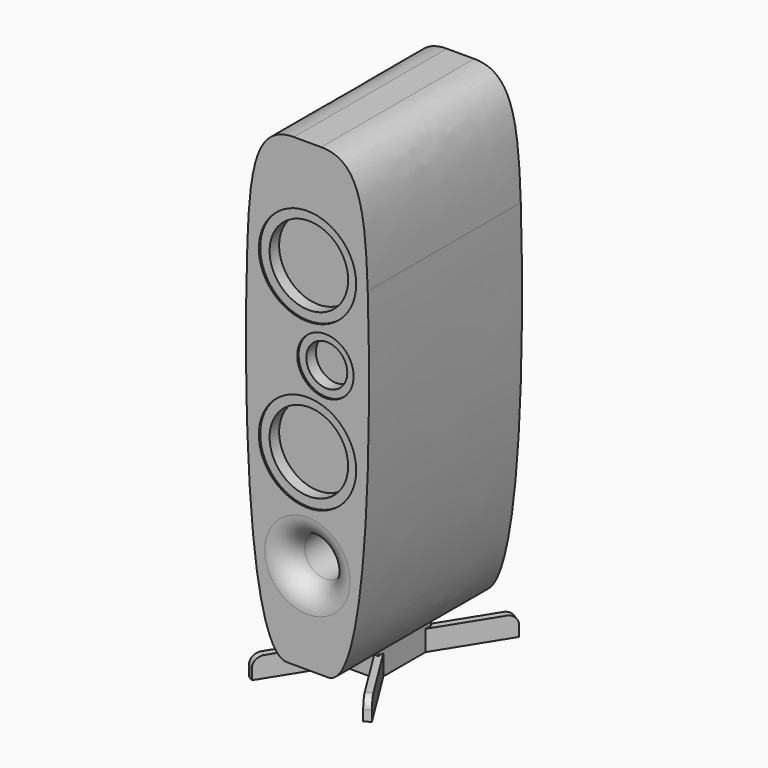
from build123d import *

# Parameters (mm, degrees)
F3_DEPTH  = 355.6
F0_R      = 90.4875
F0_R_2    = 73.025
F0_R_3    = 52.3875
F0_R_4    = 38.1
F4_DEPTH  = 3.175
F5_DEPTH  = 25.4
F10_DEPTH = 50.8
F11_START = -12.7
F11_DEPTH = 38.1
F12_R     = 19.05


with BuildPart() as f3:
    # F1 (on Front) → F3 (new body)
    with BuildSketch(Plane.XZ):
        with BuildLine():
            Line((0, 152.4), (-92.7112461504, 155.7176713219))
            add(Edge.make_bspline(
                [(-92.7112461504, 155.7176713219), (-92.8641930012, 151.1403403727), (-93.2474927467, 138.6395169996), (-93.8012474587, 117.9466457714), (-94.4256588371, 91.1332731282), (-94.9788011318, 58.819823924), (-95.3345037417, 16.2155518247), (-95.3864781132, -39.516960352), (-94.7473890545, -98.5249010914), (-93.5421839375, -139.0363418002), (-92.9135963851, -155.7249124236)],
                knots=[211.8234561932, 211.8234561932, 211.8234561932, 211.8234561932, 225.5630364262, 249.3430528874, 273.9243767972, 306.0246752951, 346.2965974624, 401.740167389, 473.2209938824, 523.3210720186, 523.3210720186, 523.3210720186, 523.3210720186], degree=3))
            Line((-92.9135963851, -155.7249124236), (0, -152.4))
            Line((0, -152.4), (93.1573884981, -149.0663634772))
            add(Edge.make_bspline(
                [(92.9250566069, 149.0746774724), (92.9984624543, 146.7113998006), (93.3067586698, 136.4248503112), (93.8012474587, 117.9466457714), (94.4256588371, 91.1332731282), (94.9788011318, 58.819823924), (95.3345037417, 16.2155518247), (95.3864781132, -39.516960352), (94.7714431232, -96.3039570159), (93.6719775289, -134.5960929674), (93.1573884981, -149.0663634772)],
                knots=[218.4698436697, 218.4698436697, 218.4698436697, 218.4698436697, 225.5630364262, 249.3430528874, 273.9243767972, 306.0246752951, 346.2965974624, 401.740167389, 473.2209938824, 516.6582152392, 516.6582152392, 516.6582152392, 516.6582152392], degree=3))
            Line((92.9250566069, 149.0746774724), (0, 152.4))
        make_face()
        with BuildLine():
            Line((0, 152.4), (-92.7112461504, 155.7176713219))
            add(Edge.make_bspline(
                [(-92.7112461504, 155.7176713219), (-92.8641930012, 151.1403403727), (-93.2474927467, 138.6395169996), (-93.8012474587, 117.9466457714), (-94.4256588371, 91.1332731282), (-94.9788011318, 58.819823924), (-95.3345037417, 16.2155518247), (-95.3864781132, -39.516960352), (-94.7473890545, -98.5249010914), (-93.5421839375, -139.0363418002), (-92.9135963851, -155.7249124236)],
                knots=[211.8234561932, 211.8234561932, 211.8234561932, 211.8234561932, 225.5630364262, 249.3430528874, 273.9243767972, 306.0246752951, 346.2965974624, 401.740167389, 473.2209938824, 523.3210720186, 523.3210720186, 523.3210720186, 523.3210720186], degree=3))
            Line((-92.9135963851, -155.7249124236), (0, -152.4))
            Line((0, -152.4), (93.1573884981, -149.0663634772))
            add(Edge.make_bspline(
                [(92.9250566069, 149.0746774724), (92.9984624543, 146.7113998006), (93.3067586698, 136.4248503112), (93.8012474587, 117.9466457714), (94.4256588371, 91.1332731282), (94.9788011318, 58.819823924), (95.3345037417, 16.2155518247), (95.3864781132, -39.516960352), (94.7714431232, -96.3039570159), (93.6719775289, -134.5960929674), (93.1573884981, -149.0663634772)],
                knots=[218.4698436697, 218.4698436697, 218.4698436697, 218.4698436697, 225.5630364262, 249.3430528874, 273.9243767972, 306.0246752951, 346.2965974624, 401.740167389, 473.2209938824, 516.6582152392, 516.6582152392, 516.6582152392, 516.6582152392], degree=3))
            Line((92.9250566069, 149.0746774724), (0, 152.4))
        make_face()
        with BuildLine():
            Line((0, 152.4), (-92.7112461504, 155.7176713219))
            add(Edge.make_bspline(
                [(-92.7112461504, 155.7176713219), (-92.8641930012, 151.1403403727), (-93.2474927467, 138.6395169996), (-93.8012474587, 117.9466457714), (-94.4256588371, 91.1332731282), (-94.9788011318, 58.819823924), (-95.3345037417, 16.2155518247), (-95.3864781132, -39.516960352), (-94.7473890545, -98.5249010914), (-93.5421839375, -139.0363418002), (-92.9135963851, -155.7249124236)],
                knots=[211.8234561932, 211.8234561932, 211.8234561932, 211.8234561932, 225.5630364262, 249.3430528874, 273.9243767972, 306.0246752951, 346.2965974624, 401.740167389, 473.2209938824, 523.3210720186, 523.3210720186, 523.3210720186, 523.3210720186], degree=3))
            Line((-92.9135963851, -155.7249124236), (0, -152.4))
            Line((0, -152.4), (93.1573884981, -149.0663634772))
            add(Edge.make_bspline(
                [(92.9250566069, 149.0746774724), (92.9984624543, 146.7113998006), (93.3067586698, 136.4248503112), (93.8012474587, 117.9466457714), (94.4256588371, 91.1332731282), (94.9788011318, 58.819823924), (95.3345037417, 16.2155518247), (95.3864781132, -39.516960352), (94.7714431232, -96.3039570159), (93.6719775289, -134.5960929674), (93.1573884981, -149.0663634772)],
                knots=[218.4698436697, 218.4698436697, 218.4698436697, 218.4698436697, 225.5630364262, 249.3430528874, 273.9243767972, 306.0246752951, 346.2965974624, 401.740167389, 473.2209938824, 516.6582152392, 516.6582152392, 516.6582152392, 516.6582152392], degree=3))
            Line((92.9250566069, 149.0746774724), (0, 152.4))
        make_face()
        with BuildLine():
            Line((0, 152.4), (-92.7112461504, 155.7176713219))
            add(Edge.make_bspline(
                [(-92.7112461504, 155.7176713219), (-92.8641930012, 151.1403403727), (-93.2474927467, 138.6395169996), (-93.8012474587, 117.9466457714), (-94.4256588371, 91.1332731282), (-94.9788011318, 58.819823924), (-95.3345037417, 16.2155518247), (-95.3864781132, -39.516960352), (-94.7473890545, -98.5249010914), (-93.5421839375, -139.0363418002), (-92.9135963851, -155.7249124236)],
                knots=[211.8234561932, 211.8234561932, 211.8234561932, 211.8234561932, 225.5630364262, 249.3430528874, 273.9243767972, 306.0246752951, 346.2965974624, 401.740167389, 473.2209938824, 523.3210720186, 523.3210720186, 523.3210720186, 523.3210720186], degree=3))
            Line((-92.9135963851, -155.7249124236), (0, -152.4))
            Line((0, -152.4), (93.1573884981, -149.0663634772))
            add(Edge.make_bspline(
                [(92.9250566069, 149.0746774724), (92.9984624543, 146.7113998006), (93.3067586698, 136.4248503112), (93.8012474587, 117.9466457714), (94.4256588371, 91.1332731282), (94.9788011318, 58.819823924), (95.3345037417, 16.2155518247), (95.3864781132, -39.516960352), (94.7714431232, -96.3039570159), (93.6719775289, -134.5960929674), (93.1573884981, -149.0663634772)],
                knots=[218.4698436697, 218.4698436697, 218.4698436697, 218.4698436697, 225.5630364262, 249.3430528874, 273.9243767972, 306.0246752951, 346.2965974624, 401.740167389, 473.2209938824, 516.6582152392, 516.6582152392, 516.6582152392, 516.6582152392], degree=3))
            Line((92.9250566069, 149.0746774724), (0, 152.4))
        make_face()
        with BuildLine():
            Line((0, 152.4), (-92.7112461504, 155.7176713219))
            add(Edge.make_bspline(
                [(-92.7112461504, 155.7176713219), (-92.8641930012, 151.1403403727), (-93.2474927467, 138.6395169996), (-93.8012474587, 117.9466457714), (-94.4256588371, 91.1332731282), (-94.9788011318, 58.819823924), (-95.3345037417, 16.2155518247), (-95.3864781132, -39.516960352), (-94.7473890545, -98.5249010914), (-93.5421839375, -139.0363418002), (-92.9135963851, -155.7249124236)],
                knots=[211.8234561932, 211.8234561932, 211.8234561932, 211.8234561932, 225.5630364262, 249.3430528874, 273.9243767972, 306.0246752951, 346.2965974624, 401.740167389, 473.2209938824, 523.3210720186, 523.3210720186, 523.3210720186, 523.3210720186], degree=3))
            Line((-92.9135963851, -155.7249124236), (0, -152.4))
            Line((0, -152.4), (93.1573884981, -149.0663634772))
            add(Edge.make_bspline(
                [(92.9250566069, 149.0746774724), (92.9984624543, 146.7113998006), (93.3067586698, 136.4248503112), (93.8012474587, 117.9466457714), (94.4256588371, 91.1332731282), (94.9788011318, 58.819823924), (95.3345037417, 16.2155518247), (95.3864781132, -39.516960352), (94.7714431232, -96.3039570159), (93.6719775289, -134.5960929674), (93.1573884981, -149.0663634772)],
                knots=[218.4698436697, 218.4698436697, 218.4698436697, 218.4698436697, 225.5630364262, 249.3430528874, 273.9243767972, 306.0246752951, 346.2965974624, 401.740167389, 473.2209938824, 516.6582152392, 516.6582152392, 516.6582152392, 516.6582152392], degree=3))
            Line((92.9250566069, 149.0746774724), (0, 152.4))
        make_face()
        with BuildLine():
            Line((0, -152.4), (-92.9135963851, -155.7249124236))
            add(Edge.make_bspline(
                [(-92.9135963851, -155.7249124236), (-92.6457618459, -162.8357366905), (-91.5970507574, -188.3890415824), (-89.524414618, -227.3102564369), (-86.5218341455, -271.880730271), (-83.2137087422, -310.024823985), (-80.488934966, -335.0813875099), (-78.9641849848, -347.3783643793), (-78.9249909244, -347.6934582376)],
                knots=[523.3210720186, 523.3210720186, 523.3210720186, 523.3210720186, 544.6681879231, 600.0435137581, 640.2454008653, 678.6773968855, 714.8974608449, 715.850005653, 715.850005653, 715.850005653, 715.850005653], degree=3))
            add(Edge.make_bspline(
                [(-78.9249909244, -347.6934582376), (-77.5831845965, -358.4806777498), (-74.7107514939, -379.3072248059), (-69.8950855973, -407.3927944405), (-64.9032216385, -429.7597325486), (-60.5188994425, -445.524215911), (-56.8451495548, -457.0610481976), (-53.4639820209, -466.060865611), (-50.0440760364, -473.6760671605), (-46.873902659, -479.550776071), (-44.1134915447, -483.5226775554), (-42.1180910537, -485.8526857591), (-40.7318678473, -487.2514205327), (-39.7232262434, -488.0869747738), (-38.9700526123, -488.6012626433), (-38.4815276269, -488.8360087805), (-38.2369620823, -488.9407472262), (-38.1459564907, -488.9455887833), (-38.1209317734, -488.9514924372), (-38.1091410957, -488.9521926248), (-38.1, -488.95)],
                knots=[715.850005653, 715.850005653, 715.850005653, 715.850005653, 748.4603205436, 778.9130798013, 801.3098883276, 817.178118273, 827.9862957219, 837.6241678442, 846.0022857075, 853.0155586135, 857.6172797047, 860.4811828503, 862.2102912432, 863.5160358364, 864.409845483, 864.9297764833, 865.1514209109, 865.1927661077, 865.201673997, 865.2283800272, 865.2283800272, 865.2283800272, 865.2283800272], degree=3))
            Line((-38.1, -488.95), (38.1, -488.95))
            add(Edge.make_bspline(
                [(93.1573884981, -149.0663634772), (92.8255619161, -158.3973443515), (91.7151585788, -186.1711414857), (89.524414618, -227.3102564369), (86.5218341455, -271.880730271), (83.2137087422, -310.024823985), (79.3136661964, -345.8889623781), (74.7644274107, -378.9941801034), (69.8950855973, -407.3927944405), (64.9032216385, -429.7597325486), (60.5188994425, -445.524215911), (56.8451495548, -457.0610481976), (53.4639820209, -466.060865611), (50.0440760364, -473.6760671605), (46.873902659, -479.550776071), (44.1134915447, -483.5226775554), (42.1180910537, -485.8526857591), (40.7318678473, -487.2514205327), (39.7232262434, -488.0869747738), (38.9700526123, -488.6012626433), (38.4815276269, -488.8360087805), (38.2369620823, -488.9407472262), (38.1459564907, -488.9455887833), (38.1209317734, -488.9514924372), (38.1091410957, -488.9521926248), (38.1, -488.95)],
                knots=[516.6582152392, 516.6582152392, 516.6582152392, 516.6582152392, 544.6681879231, 600.0435137581, 640.2454008653, 678.6773968855, 714.8974608449, 748.4603205436, 778.9130798013, 801.3098883276, 817.178118273, 827.9862957219, 837.6241678442, 846.0022857075, 853.0155586135, 857.6172797047, 860.4811828503, 862.2102912432, 863.5160358364, 864.409845483, 864.9297764833, 865.1514209109, 865.1927661077, 865.201673997, 865.2283800272, 865.2283800272, 865.2283800272, 865.2283800272], degree=3))
            Line((93.1573884981, -149.0663634772), (0, -152.4))
        make_face()
        with BuildLine():
            ThreePointArc((-67.7994469004, -379.1027642179), (-74.946808056, -363.9690455029), (-78.7620478476, -347.6730902082))
            ThreePointArc((-78.7620478476, -347.6730902082), (-4.9321940908, -258.6061504597), (79.375, -337.8277642179))
            ThreePointArc((79.375, -337.8277642179), (76.4263427187, -359.2614937963), (67.7994469004, -379.1027642179))
            ThreePointArc((67.7994469004, -379.1027642179), (60.4486971375, -389.2704083896), (51.5876438694, -398.1527642179))
            ThreePointArc((51.5876438694, -398.1527642179), (0, -417.2027642179), (-51.5876438694, -398.1527642179))
            ThreePointArc((-51.5876438694, -398.1527642179), (-60.4486971375, -389.2704083896), (-67.7994469004, -379.1027642179))
        make_face(mode=Mode.SUBTRACT)
        with BuildLine():
            Line((0, -152.4), (-92.9135963851, -155.7249124236))
            add(Edge.make_bspline(
                [(-92.9135963851, -155.7249124236), (-92.6457618459, -162.8357366905), (-91.5970507574, -188.3890415824), (-89.524414618, -227.3102564369), (-86.5218341455, -271.880730271), (-83.2137087422, -310.024823985), (-80.488934966, -335.0813875099), (-78.9641849848, -347.3783643793), (-78.9249909244, -347.6934582376)],
                knots=[523.3210720186, 523.3210720186, 523.3210720186, 523.3210720186, 544.6681879231, 600.0435137581, 640.2454008653, 678.6773968855, 714.8974608449, 715.850005653, 715.850005653, 715.850005653, 715.850005653], degree=3))
            add(Edge.make_bspline(
                [(-78.9249909244, -347.6934582376), (-77.5831845965, -358.4806777498), (-74.7107514939, -379.3072248059), (-69.8950855973, -407.3927944405), (-64.9032216385, -429.7597325486), (-60.5188994425, -445.524215911), (-56.8451495548, -457.0610481976), (-53.4639820209, -466.060865611), (-50.0440760364, -473.6760671605), (-46.873902659, -479.550776071), (-44.1134915447, -483.5226775554), (-42.1180910537, -485.8526857591), (-40.7318678473, -487.2514205327), (-39.7232262434, -488.0869747738), (-38.9700526123, -488.6012626433), (-38.4815276269, -488.8360087805), (-38.2369620823, -488.9407472262), (-38.1459564907, -488.9455887833), (-38.1209317734, -488.9514924372), (-38.1091410957, -488.9521926248), (-38.1, -488.95)],
                knots=[715.850005653, 715.850005653, 715.850005653, 715.850005653, 748.4603205436, 778.9130798013, 801.3098883276, 817.178118273, 827.9862957219, 837.6241678442, 846.0022857075, 853.0155586135, 857.6172797047, 860.4811828503, 862.2102912432, 863.5160358364, 864.409845483, 864.9297764833, 865.1514209109, 865.1927661077, 865.201673997, 865.2283800272, 865.2283800272, 865.2283800272, 865.2283800272], degree=3))
            Line((-38.1, -488.95), (38.1, -488.95))
            add(Edge.make_bspline(
                [(93.1573884981, -149.0663634772), (92.8255619161, -158.3973443515), (91.7151585788, -186.1711414857), (89.524414618, -227.3102564369), (86.5218341455, -271.880730271), (83.2137087422, -310.024823985), (79.3136661964, -345.8889623781), (74.7644274107, -378.9941801034), (69.8950855973, -407.3927944405), (64.9032216385, -429.7597325486), (60.5188994425, -445.524215911), (56.8451495548, -457.0610481976), (53.4639820209, -466.060865611), (50.0440760364, -473.6760671605), (46.873902659, -479.550776071), (44.1134915447, -483.5226775554), (42.1180910537, -485.8526857591), (40.7318678473, -487.2514205327), (39.7232262434, -488.0869747738), (38.9700526123, -488.6012626433), (38.4815276269, -488.8360087805), (38.2369620823, -488.9407472262), (38.1459564907, -488.9455887833), (38.1209317734, -488.9514924372), (38.1091410957, -488.9521926248), (38.1, -488.95)],
                knots=[516.6582152392, 516.6582152392, 516.6582152392, 516.6582152392, 544.6681879231, 600.0435137581, 640.2454008653, 678.6773968855, 714.8974608449, 748.4603205436, 778.9130798013, 801.3098883276, 817.178118273, 827.9862957219, 837.6241678442, 846.0022857075, 853.0155586135, 857.6172797047, 860.4811828503, 862.2102912432, 863.5160358364, 864.409845483, 864.9297764833, 865.1514209109, 865.1927661077, 865.201673997, 865.2283800272, 865.2283800272, 865.2283800272, 865.2283800272], degree=3))
            Line((93.1573884981, -149.0663634772), (0, -152.4))
        make_face()
        with BuildLine():
            ThreePointArc((-67.7994469004, -379.1027642179), (-74.946808056, -363.9690455029), (-78.7620478476, -347.6730902082))
            ThreePointArc((-78.7620478476, -347.6730902082), (-4.9321940908, -258.6061504597), (79.375, -337.8277642179))
            ThreePointArc((79.375, -337.8277642179), (76.4263427187, -359.2614937963), (67.7994469004, -379.1027642179))
            ThreePointArc((67.7994469004, -379.1027642179), (60.4486971375, -389.2704083896), (51.5876438694, -398.1527642179))
            ThreePointArc((51.5876438694, -398.1527642179), (0, -417.2027642179), (-51.5876438694, -398.1527642179))
            ThreePointArc((-51.5876438694, -398.1527642179), (-60.4486971375, -389.2704083896), (-67.7994469004, -379.1027642179))
        make_face(mode=Mode.SUBTRACT)
        with BuildLine():
            Line((0, -152.4), (-92.9135963851, -155.7249124236))
            add(Edge.make_bspline(
                [(-92.9135963851, -155.7249124236), (-92.6457618459, -162.8357366905), (-91.5970507574, -188.3890415824), (-89.524414618, -227.3102564369), (-86.5218341455, -271.880730271), (-83.2137087422, -310.024823985), (-80.488934966, -335.0813875099), (-78.9641849848, -347.3783643793), (-78.9249909244, -347.6934582376)],
                knots=[523.3210720186, 523.3210720186, 523.3210720186, 523.3210720186, 544.6681879231, 600.0435137581, 640.2454008653, 678.6773968855, 714.8974608449, 715.850005653, 715.850005653, 715.850005653, 715.850005653], degree=3))
            add(Edge.make_bspline(
                [(-78.9249909244, -347.6934582376), (-77.5831845965, -358.4806777498), (-74.7107514939, -379.3072248059), (-69.8950855973, -407.3927944405), (-64.9032216385, -429.7597325486), (-60.5188994425, -445.524215911), (-56.8451495548, -457.0610481976), (-53.4639820209, -466.060865611), (-50.0440760364, -473.6760671605), (-46.873902659, -479.550776071), (-44.1134915447, -483.5226775554), (-42.1180910537, -485.8526857591), (-40.7318678473, -487.2514205327), (-39.7232262434, -488.0869747738), (-38.9700526123, -488.6012626433), (-38.4815276269, -488.8360087805), (-38.2369620823, -488.9407472262), (-38.1459564907, -488.9455887833), (-38.1209317734, -488.9514924372), (-38.1091410957, -488.9521926248), (-38.1, -488.95)],
                knots=[715.850005653, 715.850005653, 715.850005653, 715.850005653, 748.4603205436, 778.9130798013, 801.3098883276, 817.178118273, 827.9862957219, 837.6241678442, 846.0022857075, 853.0155586135, 857.6172797047, 860.4811828503, 862.2102912432, 863.5160358364, 864.409845483, 864.9297764833, 865.1514209109, 865.1927661077, 865.201673997, 865.2283800272, 865.2283800272, 865.2283800272, 865.2283800272], degree=3))
            Line((-38.1, -488.95), (38.1, -488.95))
            add(Edge.make_bspline(
                [(93.1573884981, -149.0663634772), (92.8255619161, -158.3973443515), (91.7151585788, -186.1711414857), (89.524414618, -227.3102564369), (86.5218341455, -271.880730271), (83.2137087422, -310.024823985), (79.3136661964, -345.8889623781), (74.7644274107, -378.9941801034), (69.8950855973, -407.3927944405), (64.9032216385, -429.7597325486), (60.5188994425, -445.524215911), (56.8451495548, -457.0610481976), (53.4639820209, -466.060865611), (50.0440760364, -473.6760671605), (46.873902659, -479.550776071), (44.1134915447, -483.5226775554), (42.1180910537, -485.8526857591), (40.7318678473, -487.2514205327), (39.7232262434, -488.0869747738), (38.9700526123, -488.6012626433), (38.4815276269, -488.8360087805), (38.2369620823, -488.9407472262), (38.1459564907, -488.9455887833), (38.1209317734, -488.9514924372), (38.1091410957, -488.9521926248), (38.1, -488.95)],
                knots=[516.6582152392, 516.6582152392, 516.6582152392, 516.6582152392, 544.6681879231, 600.0435137581, 640.2454008653, 678.6773968855, 714.8974608449, 748.4603205436, 778.9130798013, 801.3098883276, 817.178118273, 827.9862957219, 837.6241678442, 846.0022857075, 853.0155586135, 857.6172797047, 860.4811828503, 862.2102912432, 863.5160358364, 864.409845483, 864.9297764833, 865.1514209109, 865.1927661077, 865.201673997, 865.2283800272, 865.2283800272, 865.2283800272, 865.2283800272], degree=3))
            Line((93.1573884981, -149.0663634772), (0, -152.4))
        make_face()
        with BuildLine():
            ThreePointArc((-67.7994469004, -379.1027642179), (-74.946808056, -363.9690455029), (-78.7620478476, -347.6730902082))
            ThreePointArc((-78.7620478476, -347.6730902082), (-4.9321940908, -258.6061504597), (79.375, -337.8277642179))
            ThreePointArc((79.375, -337.8277642179), (76.4263427187, -359.2614937963), (67.7994469004, -379.1027642179))
            ThreePointArc((67.7994469004, -379.1027642179), (60.4486971375, -389.2704083896), (51.5876438694, -398.1527642179))
            ThreePointArc((51.5876438694, -398.1527642179), (0, -417.2027642179), (-51.5876438694, -398.1527642179))
            ThreePointArc((-51.5876438694, -398.1527642179), (-60.4486971375, -389.2704083896), (-67.7994469004, -379.1027642179))
        make_face(mode=Mode.SUBTRACT)
        with BuildLine():
            Line((0, -152.4), (-92.9135963851, -155.7249124236))
            add(Edge.make_bspline(
                [(-92.9135963851, -155.7249124236), (-92.6457618459, -162.8357366905), (-91.5970507574, -188.3890415824), (-89.524414618, -227.3102564369), (-86.5218341455, -271.880730271), (-83.2137087422, -310.024823985), (-80.488934966, -335.0813875099), (-78.9641849848, -347.3783643793), (-78.9249909244, -347.6934582376)],
                knots=[523.3210720186, 523.3210720186, 523.3210720186, 523.3210720186, 544.6681879231, 600.0435137581, 640.2454008653, 678.6773968855, 714.8974608449, 715.850005653, 715.850005653, 715.850005653, 715.850005653], degree=3))
            add(Edge.make_bspline(
                [(-78.9249909244, -347.6934582376), (-77.5831845965, -358.4806777498), (-74.7107514939, -379.3072248059), (-69.8950855973, -407.3927944405), (-64.9032216385, -429.7597325486), (-60.5188994425, -445.524215911), (-56.8451495548, -457.0610481976), (-53.4639820209, -466.060865611), (-50.0440760364, -473.6760671605), (-46.873902659, -479.550776071), (-44.1134915447, -483.5226775554), (-42.1180910537, -485.8526857591), (-40.7318678473, -487.2514205327), (-39.7232262434, -488.0869747738), (-38.9700526123, -488.6012626433), (-38.4815276269, -488.8360087805), (-38.2369620823, -488.9407472262), (-38.1459564907, -488.9455887833), (-38.1209317734, -488.9514924372), (-38.1091410957, -488.9521926248), (-38.1, -488.95)],
                knots=[715.850005653, 715.850005653, 715.850005653, 715.850005653, 748.4603205436, 778.9130798013, 801.3098883276, 817.178118273, 827.9862957219, 837.6241678442, 846.0022857075, 853.0155586135, 857.6172797047, 860.4811828503, 862.2102912432, 863.5160358364, 864.409845483, 864.9297764833, 865.1514209109, 865.1927661077, 865.201673997, 865.2283800272, 865.2283800272, 865.2283800272, 865.2283800272], degree=3))
            Line((-38.1, -488.95), (38.1, -488.95))
            add(Edge.make_bspline(
                [(93.1573884981, -149.0663634772), (92.8255619161, -158.3973443515), (91.7151585788, -186.1711414857), (89.524414618, -227.3102564369), (86.5218341455, -271.880730271), (83.2137087422, -310.024823985), (79.3136661964, -345.8889623781), (74.7644274107, -378.9941801034), (69.8950855973, -407.3927944405), (64.9032216385, -429.7597325486), (60.5188994425, -445.524215911), (56.8451495548, -457.0610481976), (53.4639820209, -466.060865611), (50.0440760364, -473.6760671605), (46.873902659, -479.550776071), (44.1134915447, -483.5226775554), (42.1180910537, -485.8526857591), (40.7318678473, -487.2514205327), (39.7232262434, -488.0869747738), (38.9700526123, -488.6012626433), (38.4815276269, -488.8360087805), (38.2369620823, -488.9407472262), (38.1459564907, -488.9455887833), (38.1209317734, -488.9514924372), (38.1091410957, -488.9521926248), (38.1, -488.95)],
                knots=[516.6582152392, 516.6582152392, 516.6582152392, 516.6582152392, 544.6681879231, 600.0435137581, 640.2454008653, 678.6773968855, 714.8974608449, 748.4603205436, 778.9130798013, 801.3098883276, 817.178118273, 827.9862957219, 837.6241678442, 846.0022857075, 853.0155586135, 857.6172797047, 860.4811828503, 862.2102912432, 863.5160358364, 864.409845483, 864.9297764833, 865.1514209109, 865.1927661077, 865.201673997, 865.2283800272, 865.2283800272, 865.2283800272, 865.2283800272], degree=3))
            Line((93.1573884981, -149.0663634772), (0, -152.4))
        make_face()
        with BuildLine():
            ThreePointArc((-67.7994469004, -379.1027642179), (-74.946808056, -363.9690455029), (-78.7620478476, -347.6730902082))
            ThreePointArc((-78.7620478476, -347.6730902082), (-4.9321940908, -258.6061504597), (79.375, -337.8277642179))
            ThreePointArc((79.375, -337.8277642179), (76.4263427187, -359.2614937963), (67.7994469004, -379.1027642179))
            ThreePointArc((67.7994469004, -379.1027642179), (60.4486971375, -389.2704083896), (51.5876438694, -398.1527642179))
            ThreePointArc((51.5876438694, -398.1527642179), (0, -417.2027642179), (-51.5876438694, -398.1527642179))
            ThreePointArc((-51.5876438694, -398.1527642179), (-60.4486971375, -389.2704083896), (-67.7994469004, -379.1027642179))
        make_face(mode=Mode.SUBTRACT)
        with BuildLine():
            Line((0, -152.4), (-92.9135963851, -155.7249124236))
            add(Edge.make_bspline(
                [(-92.9135963851, -155.7249124236), (-92.6457618459, -162.8357366905), (-91.5970507574, -188.3890415824), (-89.524414618, -227.3102564369), (-86.5218341455, -271.880730271), (-83.2137087422, -310.024823985), (-80.488934966, -335.0813875099), (-78.9641849848, -347.3783643793), (-78.9249909244, -347.6934582376)],
                knots=[523.3210720186, 523.3210720186, 523.3210720186, 523.3210720186, 544.6681879231, 600.0435137581, 640.2454008653, 678.6773968855, 714.8974608449, 715.850005653, 715.850005653, 715.850005653, 715.850005653], degree=3))
            add(Edge.make_bspline(
                [(-78.9249909244, -347.6934582376), (-77.5831845965, -358.4806777498), (-74.7107514939, -379.3072248059), (-69.8950855973, -407.3927944405), (-64.9032216385, -429.7597325486), (-60.5188994425, -445.524215911), (-56.8451495548, -457.0610481976), (-53.4639820209, -466.060865611), (-50.0440760364, -473.6760671605), (-46.873902659, -479.550776071), (-44.1134915447, -483.5226775554), (-42.1180910537, -485.8526857591), (-40.7318678473, -487.2514205327), (-39.7232262434, -488.0869747738), (-38.9700526123, -488.6012626433), (-38.4815276269, -488.8360087805), (-38.2369620823, -488.9407472262), (-38.1459564907, -488.9455887833), (-38.1209317734, -488.9514924372), (-38.1091410957, -488.9521926248), (-38.1, -488.95)],
                knots=[715.850005653, 715.850005653, 715.850005653, 715.850005653, 748.4603205436, 778.9130798013, 801.3098883276, 817.178118273, 827.9862957219, 837.6241678442, 846.0022857075, 853.0155586135, 857.6172797047, 860.4811828503, 862.2102912432, 863.5160358364, 864.409845483, 864.9297764833, 865.1514209109, 865.1927661077, 865.201673997, 865.2283800272, 865.2283800272, 865.2283800272, 865.2283800272], degree=3))
            Line((-38.1, -488.95), (38.1, -488.95))
            add(Edge.make_bspline(
                [(93.1573884981, -149.0663634772), (92.8255619161, -158.3973443515), (91.7151585788, -186.1711414857), (89.524414618, -227.3102564369), (86.5218341455, -271.880730271), (83.2137087422, -310.024823985), (79.3136661964, -345.8889623781), (74.7644274107, -378.9941801034), (69.8950855973, -407.3927944405), (64.9032216385, -429.7597325486), (60.5188994425, -445.524215911), (56.8451495548, -457.0610481976), (53.4639820209, -466.060865611), (50.0440760364, -473.6760671605), (46.873902659, -479.550776071), (44.1134915447, -483.5226775554), (42.1180910537, -485.8526857591), (40.7318678473, -487.2514205327), (39.7232262434, -488.0869747738), (38.9700526123, -488.6012626433), (38.4815276269, -488.8360087805), (38.2369620823, -488.9407472262), (38.1459564907, -488.9455887833), (38.1209317734, -488.9514924372), (38.1091410957, -488.9521926248), (38.1, -488.95)],
                knots=[516.6582152392, 516.6582152392, 516.6582152392, 516.6582152392, 544.6681879231, 600.0435137581, 640.2454008653, 678.6773968855, 714.8974608449, 748.4603205436, 778.9130798013, 801.3098883276, 817.178118273, 827.9862957219, 837.6241678442, 846.0022857075, 853.0155586135, 857.6172797047, 860.4811828503, 862.2102912432, 863.5160358364, 864.409845483, 864.9297764833, 865.1514209109, 865.1927661077, 865.201673997, 865.2283800272, 865.2283800272, 865.2283800272, 865.2283800272], degree=3))
            Line((93.1573884981, -149.0663634772), (0, -152.4))
        make_face()
        with BuildLine():
            ThreePointArc((-67.7994469004, -379.1027642179), (-74.946808056, -363.9690455029), (-78.7620478476, -347.6730902082))
            ThreePointArc((-78.7620478476, -347.6730902082), (-4.9321940908, -258.6061504597), (79.375, -337.8277642179))
            ThreePointArc((79.375, -337.8277642179), (76.4263427187, -359.2614937963), (67.7994469004, -379.1027642179))
            ThreePointArc((67.7994469004, -379.1027642179), (60.4486971375, -389.2704083896), (51.5876438694, -398.1527642179))
            ThreePointArc((51.5876438694, -398.1527642179), (0, -417.2027642179), (-51.5876438694, -398.1527642179))
            ThreePointArc((-51.5876438694, -398.1527642179), (-60.4486971375, -389.2704083896), (-67.7994469004, -379.1027642179))
        make_face(mode=Mode.SUBTRACT)
        with BuildLine():
            Line((0, -152.4), (-92.9135963851, -155.7249124236))
            add(Edge.make_bspline(
                [(-92.9135963851, -155.7249124236), (-92.6457618459, -162.8357366905), (-91.5970507574, -188.3890415824), (-89.524414618, -227.3102564369), (-86.5218341455, -271.880730271), (-83.2137087422, -310.024823985), (-80.488934966, -335.0813875099), (-78.9641849848, -347.3783643793), (-78.9249909244, -347.6934582376)],
                knots=[523.3210720186, 523.3210720186, 523.3210720186, 523.3210720186, 544.6681879231, 600.0435137581, 640.2454008653, 678.6773968855, 714.8974608449, 715.850005653, 715.850005653, 715.850005653, 715.850005653], degree=3))
            add(Edge.make_bspline(
                [(-78.9249909244, -347.6934582376), (-77.5831845965, -358.4806777498), (-74.7107514939, -379.3072248059), (-69.8950855973, -407.3927944405), (-64.9032216385, -429.7597325486), (-60.5188994425, -445.524215911), (-56.8451495548, -457.0610481976), (-53.4639820209, -466.060865611), (-50.0440760364, -473.6760671605), (-46.873902659, -479.550776071), (-44.1134915447, -483.5226775554), (-42.1180910537, -485.8526857591), (-40.7318678473, -487.2514205327), (-39.7232262434, -488.0869747738), (-38.9700526123, -488.6012626433), (-38.4815276269, -488.8360087805), (-38.2369620823, -488.9407472262), (-38.1459564907, -488.9455887833), (-38.1209317734, -488.9514924372), (-38.1091410957, -488.9521926248), (-38.1, -488.95)],
                knots=[715.850005653, 715.850005653, 715.850005653, 715.850005653, 748.4603205436, 778.9130798013, 801.3098883276, 817.178118273, 827.9862957219, 837.6241678442, 846.0022857075, 853.0155586135, 857.6172797047, 860.4811828503, 862.2102912432, 863.5160358364, 864.409845483, 864.9297764833, 865.1514209109, 865.1927661077, 865.201673997, 865.2283800272, 865.2283800272, 865.2283800272, 865.2283800272], degree=3))
            Line((-38.1, -488.95), (38.1, -488.95))
            add(Edge.make_bspline(
                [(93.1573884981, -149.0663634772), (92.8255619161, -158.3973443515), (91.7151585788, -186.1711414857), (89.524414618, -227.3102564369), (86.5218341455, -271.880730271), (83.2137087422, -310.024823985), (79.3136661964, -345.8889623781), (74.7644274107, -378.9941801034), (69.8950855973, -407.3927944405), (64.9032216385, -429.7597325486), (60.5188994425, -445.524215911), (56.8451495548, -457.0610481976), (53.4639820209, -466.060865611), (50.0440760364, -473.6760671605), (46.873902659, -479.550776071), (44.1134915447, -483.5226775554), (42.1180910537, -485.8526857591), (40.7318678473, -487.2514205327), (39.7232262434, -488.0869747738), (38.9700526123, -488.6012626433), (38.4815276269, -488.8360087805), (38.2369620823, -488.9407472262), (38.1459564907, -488.9455887833), (38.1209317734, -488.9514924372), (38.1091410957, -488.9521926248), (38.1, -488.95)],
                knots=[516.6582152392, 516.6582152392, 516.6582152392, 516.6582152392, 544.6681879231, 600.0435137581, 640.2454008653, 678.6773968855, 714.8974608449, 748.4603205436, 778.9130798013, 801.3098883276, 817.178118273, 827.9862957219, 837.6241678442, 846.0022857075, 853.0155586135, 857.6172797047, 860.4811828503, 862.2102912432, 863.5160358364, 864.409845483, 864.9297764833, 865.1514209109, 865.1927661077, 865.201673997, 865.2283800272, 865.2283800272, 865.2283800272, 865.2283800272], degree=3))
            Line((93.1573884981, -149.0663634772), (0, -152.4))
        make_face()
        with BuildLine():
            ThreePointArc((-67.7994469004, -379.1027642179), (-74.946808056, -363.9690455029), (-78.7620478476, -347.6730902082))
            ThreePointArc((-78.7620478476, -347.6730902082), (-4.9321940908, -258.6061504597), (79.375, -337.8277642179))
            ThreePointArc((79.375, -337.8277642179), (76.4263427187, -359.2614937963), (67.7994469004, -379.1027642179))
            ThreePointArc((67.7994469004, -379.1027642179), (60.4486971375, -389.2704083896), (51.5876438694, -398.1527642179))
            ThreePointArc((51.5876438694, -398.1527642179), (0, -417.2027642179), (-51.5876438694, -398.1527642179))
            ThreePointArc((-51.5876438694, -398.1527642179), (-60.4486971375, -389.2704083896), (-67.7994469004, -379.1027642179))
        make_face(mode=Mode.SUBTRACT)
        with BuildLine():
            Line((0, -152.4), (-92.9135963851, -155.7249124236))
            add(Edge.make_bspline(
                [(-92.9135963851, -155.7249124236), (-92.6457618459, -162.8357366905), (-91.5970507574, -188.3890415824), (-89.524414618, -227.3102564369), (-86.5218341455, -271.880730271), (-83.2137087422, -310.024823985), (-80.488934966, -335.0813875099), (-78.9641849848, -347.3783643793), (-78.9249909244, -347.6934582376)],
                knots=[523.3210720186, 523.3210720186, 523.3210720186, 523.3210720186, 544.6681879231, 600.0435137581, 640.2454008653, 678.6773968855, 714.8974608449, 715.850005653, 715.850005653, 715.850005653, 715.850005653], degree=3))
            add(Edge.make_bspline(
                [(-78.9249909244, -347.6934582376), (-77.5831845965, -358.4806777498), (-74.7107514939, -379.3072248059), (-69.8950855973, -407.3927944405), (-64.9032216385, -429.7597325486), (-60.5188994425, -445.524215911), (-56.8451495548, -457.0610481976), (-53.4639820209, -466.060865611), (-50.0440760364, -473.6760671605), (-46.873902659, -479.550776071), (-44.1134915447, -483.5226775554), (-42.1180910537, -485.8526857591), (-40.7318678473, -487.2514205327), (-39.7232262434, -488.0869747738), (-38.9700526123, -488.6012626433), (-38.4815276269, -488.8360087805), (-38.2369620823, -488.9407472262), (-38.1459564907, -488.9455887833), (-38.1209317734, -488.9514924372), (-38.1091410957, -488.9521926248), (-38.1, -488.95)],
                knots=[715.850005653, 715.850005653, 715.850005653, 715.850005653, 748.4603205436, 778.9130798013, 801.3098883276, 817.178118273, 827.9862957219, 837.6241678442, 846.0022857075, 853.0155586135, 857.6172797047, 860.4811828503, 862.2102912432, 863.5160358364, 864.409845483, 864.9297764833, 865.1514209109, 865.1927661077, 865.201673997, 865.2283800272, 865.2283800272, 865.2283800272, 865.2283800272], degree=3))
            Line((-38.1, -488.95), (38.1, -488.95))
            add(Edge.make_bspline(
                [(93.1573884981, -149.0663634772), (92.8255619161, -158.3973443515), (91.7151585788, -186.1711414857), (89.524414618, -227.3102564369), (86.5218341455, -271.880730271), (83.2137087422, -310.024823985), (79.3136661964, -345.8889623781), (74.7644274107, -378.9941801034), (69.8950855973, -407.3927944405), (64.9032216385, -429.7597325486), (60.5188994425, -445.524215911), (56.8451495548, -457.0610481976), (53.4639820209, -466.060865611), (50.0440760364, -473.6760671605), (46.873902659, -479.550776071), (44.1134915447, -483.5226775554), (42.1180910537, -485.8526857591), (40.7318678473, -487.2514205327), (39.7232262434, -488.0869747738), (38.9700526123, -488.6012626433), (38.4815276269, -488.8360087805), (38.2369620823, -488.9407472262), (38.1459564907, -488.9455887833), (38.1209317734, -488.9514924372), (38.1091410957, -488.9521926248), (38.1, -488.95)],
                knots=[516.6582152392, 516.6582152392, 516.6582152392, 516.6582152392, 544.6681879231, 600.0435137581, 640.2454008653, 678.6773968855, 714.8974608449, 748.4603205436, 778.9130798013, 801.3098883276, 817.178118273, 827.9862957219, 837.6241678442, 846.0022857075, 853.0155586135, 857.6172797047, 860.4811828503, 862.2102912432, 863.5160358364, 864.409845483, 864.9297764833, 865.1514209109, 865.1927661077, 865.201673997, 865.2283800272, 865.2283800272, 865.2283800272, 865.2283800272], degree=3))
            Line((93.1573884981, -149.0663634772), (0, -152.4))
        make_face()
        with BuildLine():
            ThreePointArc((-67.7994469004, -379.1027642179), (-74.946808056, -363.9690455029), (-78.7620478476, -347.6730902082))
            ThreePointArc((-78.7620478476, -347.6730902082), (-4.9321940908, -258.6061504597), (79.375, -337.8277642179))
            ThreePointArc((79.375, -337.8277642179), (76.4263427187, -359.2614937963), (67.7994469004, -379.1027642179))
            ThreePointArc((67.7994469004, -379.1027642179), (60.4486971375, -389.2704083896), (51.5876438694, -398.1527642179))
            ThreePointArc((51.5876438694, -398.1527642179), (0, -417.2027642179), (-51.5876438694, -398.1527642179))
            ThreePointArc((-51.5876438694, -398.1527642179), (-60.4486971375, -389.2704083896), (-67.7994469004, -379.1027642179))
        make_face(mode=Mode.SUBTRACT)
        with BuildLine():
            add(Edge.make_bspline(
                [(-25.4, 336.55), (-26.219124399, 336.5607076564), (-28.5821973036, 336.5623135373), (-32.9992978325, 336.3817231797), (-38.3894510314, 335.5501908078), (-43.8062638042, 334.1164719157), (-48.6030916775, 332.1758380543), (-52.9252945032, 329.7409971269), (-56.9113409621, 326.7560114702), (-60.6643571163, 323.1327954712), (-64.2389192894, 318.7738415119), (-67.6447014813, 313.5981548713), (-70.8749514983, 307.5572143941), (-74.2391799374, 299.7689330165), (-78.1231499211, 288.9776683293), (-82.2551931659, 273.2098989824), (-85.788315744, 252.5633077424), (-88.6881729913, 227.7281844506), (-90.7933005704, 199.8555695635), (-92.0067128682, 175.5143471067), (-92.5521607382, 160.4787146337), (-92.7112461504, 155.7176713219)],
                knots=[0, 0, 0, 0, 2.4589086849, 7.0867384095, 13.2495483758, 18.7784747063, 23.8629638687, 28.7296207867, 33.6202727333, 38.7618397776, 44.3416310303, 50.4972458978, 57.320078319, 64.8655409177, 75.9302820886, 91.6967583313, 113.6932283411, 138.7141116587, 166.6871375744, 197.5324343504, 211.8234561932, 211.8234561932, 211.8234561932, 211.8234561932], degree=3))
            Line((-92.7112461504, 155.7176713219), (0, 152.4))
            Line((0, 152.4), (92.9250566069, 149.0746774724))
            add(Edge.make_bspline(
                [(25.4, 336.55), (26.219124399, 336.5607076564), (28.5821973036, 336.5623135373), (32.9992978325, 336.3817231797), (38.3894510314, 335.5501908078), (43.8062638042, 334.1164719157), (48.6030916775, 332.1758380543), (52.9252945032, 329.7409971269), (56.9113409621, 326.7560114702), (60.6643571163, 323.1327954712), (64.2389192894, 318.7738415119), (67.6447014813, 313.5981548713), (70.8749514983, 307.5572143941), (74.2391799374, 299.7689330165), (78.1231499211, 288.9776683293), (82.2551931659, 273.2098989824), (85.788315744, 252.5633077424), (88.6881729913, 227.7281844506), (90.7933005704, 199.8555695635), (92.1170244618, 173.3014809249), (92.7083800936, 156.0505081945), (92.9250566069, 149.0746774724)],
                knots=[0, 0, 0, 0, 2.4589086849, 7.0867384095, 13.2495483758, 18.7784747063, 23.8629638687, 28.7296207867, 33.6202727333, 38.7618397776, 44.3416310303, 50.4972458978, 57.320078319, 64.8655409177, 75.9302820886, 91.6967583313, 113.6932283411, 138.7141116587, 166.6871375744, 197.5324343504, 218.4698436697, 218.4698436697, 218.4698436697, 218.4698436697], degree=3))
            Line((25.4, 336.55), (-25.4, 336.55))
        make_face()
        with BuildLine():
            add(Edge.make_bspline(
                [(-25.4, 336.55), (-26.219124399, 336.5607076564), (-28.5821973036, 336.5623135373), (-32.9992978325, 336.3817231797), (-38.3894510314, 335.5501908078), (-43.8062638042, 334.1164719157), (-48.6030916775, 332.1758380543), (-52.9252945032, 329.7409971269), (-56.9113409621, 326.7560114702), (-60.6643571163, 323.1327954712), (-64.2389192894, 318.7738415119), (-67.6447014813, 313.5981548713), (-70.8749514983, 307.5572143941), (-74.2391799374, 299.7689330165), (-78.1231499211, 288.9776683293), (-82.2551931659, 273.2098989824), (-85.788315744, 252.5633077424), (-88.6881729913, 227.7281844506), (-90.7933005704, 199.8555695635), (-92.0067128682, 175.5143471067), (-92.5521607382, 160.4787146337), (-92.7112461504, 155.7176713219)],
                knots=[0, 0, 0, 0, 2.4589086849, 7.0867384095, 13.2495483758, 18.7784747063, 23.8629638687, 28.7296207867, 33.6202727333, 38.7618397776, 44.3416310303, 50.4972458978, 57.320078319, 64.8655409177, 75.9302820886, 91.6967583313, 113.6932283411, 138.7141116587, 166.6871375744, 197.5324343504, 211.8234561932, 211.8234561932, 211.8234561932, 211.8234561932], degree=3))
            Line((-92.7112461504, 155.7176713219), (0, 152.4))
            Line((0, 152.4), (92.9250566069, 149.0746774724))
            add(Edge.make_bspline(
                [(25.4, 336.55), (26.219124399, 336.5607076564), (28.5821973036, 336.5623135373), (32.9992978325, 336.3817231797), (38.3894510314, 335.5501908078), (43.8062638042, 334.1164719157), (48.6030916775, 332.1758380543), (52.9252945032, 329.7409971269), (56.9113409621, 326.7560114702), (60.6643571163, 323.1327954712), (64.2389192894, 318.7738415119), (67.6447014813, 313.5981548713), (70.8749514983, 307.5572143941), (74.2391799374, 299.7689330165), (78.1231499211, 288.9776683293), (82.2551931659, 273.2098989824), (85.788315744, 252.5633077424), (88.6881729913, 227.7281844506), (90.7933005704, 199.8555695635), (92.1170244618, 173.3014809249), (92.7083800936, 156.0505081945), (92.9250566069, 149.0746774724)],
                knots=[0, 0, 0, 0, 2.4589086849, 7.0867384095, 13.2495483758, 18.7784747063, 23.8629638687, 28.7296207867, 33.6202727333, 38.7618397776, 44.3416310303, 50.4972458978, 57.320078319, 64.8655409177, 75.9302820886, 91.6967583313, 113.6932283411, 138.7141116587, 166.6871375744, 197.5324343504, 218.4698436697, 218.4698436697, 218.4698436697, 218.4698436697], degree=3))
            Line((25.4, 336.55), (-25.4, 336.55))
        make_face()
        with BuildLine():
            add(Edge.make_bspline(
                [(-25.4, 336.55), (-26.219124399, 336.5607076564), (-28.5821973036, 336.5623135373), (-32.9992978325, 336.3817231797), (-38.3894510314, 335.5501908078), (-43.8062638042, 334.1164719157), (-48.6030916775, 332.1758380543), (-52.9252945032, 329.7409971269), (-56.9113409621, 326.7560114702), (-60.6643571163, 323.1327954712), (-64.2389192894, 318.7738415119), (-67.6447014813, 313.5981548713), (-70.8749514983, 307.5572143941), (-74.2391799374, 299.7689330165), (-78.1231499211, 288.9776683293), (-82.2551931659, 273.2098989824), (-85.788315744, 252.5633077424), (-88.6881729913, 227.7281844506), (-90.7933005704, 199.8555695635), (-92.0067128682, 175.5143471067), (-92.5521607382, 160.4787146337), (-92.7112461504, 155.7176713219)],
                knots=[0, 0, 0, 0, 2.4589086849, 7.0867384095, 13.2495483758, 18.7784747063, 23.8629638687, 28.7296207867, 33.6202727333, 38.7618397776, 44.3416310303, 50.4972458978, 57.320078319, 64.8655409177, 75.9302820886, 91.6967583313, 113.6932283411, 138.7141116587, 166.6871375744, 197.5324343504, 211.8234561932, 211.8234561932, 211.8234561932, 211.8234561932], degree=3))
            Line((-92.7112461504, 155.7176713219), (0, 152.4))
            Line((0, 152.4), (92.9250566069, 149.0746774724))
            add(Edge.make_bspline(
                [(25.4, 336.55), (26.219124399, 336.5607076564), (28.5821973036, 336.5623135373), (32.9992978325, 336.3817231797), (38.3894510314, 335.5501908078), (43.8062638042, 334.1164719157), (48.6030916775, 332.1758380543), (52.9252945032, 329.7409971269), (56.9113409621, 326.7560114702), (60.6643571163, 323.1327954712), (64.2389192894, 318.7738415119), (67.6447014813, 313.5981548713), (70.8749514983, 307.5572143941), (74.2391799374, 299.7689330165), (78.1231499211, 288.9776683293), (82.2551931659, 273.2098989824), (85.788315744, 252.5633077424), (88.6881729913, 227.7281844506), (90.7933005704, 199.8555695635), (92.1170244618, 173.3014809249), (92.7083800936, 156.0505081945), (92.9250566069, 149.0746774724)],
                knots=[0, 0, 0, 0, 2.4589086849, 7.0867384095, 13.2495483758, 18.7784747063, 23.8629638687, 28.7296207867, 33.6202727333, 38.7618397776, 44.3416310303, 50.4972458978, 57.320078319, 64.8655409177, 75.9302820886, 91.6967583313, 113.6932283411, 138.7141116587, 166.6871375744, 197.5324343504, 218.4698436697, 218.4698436697, 218.4698436697, 218.4698436697], degree=3))
            Line((25.4, 336.55), (-25.4, 336.55))
        make_face()
        with BuildLine():
            ThreePointArc((79.375, -337.8277642179), (-4.9321940908, -258.6061504597), (-78.7620478476, -347.6730902082))
            ThreePointArc((-78.7620478476, -347.6730902082), (-74.946808056, -363.9690455029), (-67.7994469004, -379.1027642179))
            Line((-67.7994469004, -379.1027642179), (67.7994469004, -379.1027642179))
            ThreePointArc((67.7994469004, -379.1027642179), (76.4263427187, -359.2614937963), (79.375, -337.8277642179))
        make_face()
        with BuildLine():
            ThreePointArc((38.1, -337.8277642179), (2.3674531636, -375.8541388218), (-37.8057829668, -342.5535206932))
            ThreePointArc((-37.8057829668, -342.5535206932), (-2.3674531636, -299.801389614), (38.1, -337.8277642179))
        make_face(mode=Mode.SUBTRACT)
        with BuildLine():
            add(Edge.make_bspline(
                [(111.9660380641, -148.3932960786), (105.7240076529, -334.299321393), (85.7683868653, -508), (38.1, -508)],
                knots=[0.5932667041, 0.5932667041, 0.5932667041, 0.5932667041, 1, 1, 1, 1], degree=3))
            Line((111.9660380641, -148.3932960786), (93.1573884981, -149.0663634772))
            add(Edge.make_bspline(
                [(93.1573884981, -149.0663634772), (92.8255619161, -158.3973443515), (91.7151585788, -186.1711414857), (89.524414618, -227.3102564369), (86.5218341455, -271.880730271), (83.2137087422, -310.024823985), (79.3136661964, -345.8889623781), (74.7644274107, -378.9941801034), (69.8950855973, -407.3927944405), (64.9032216385, -429.7597325486), (60.5188994425, -445.524215911), (56.8451495548, -457.0610481976), (53.4639820209, -466.060865611), (50.0440760364, -473.6760671605), (46.873902659, -479.550776071), (44.1134915447, -483.5226775554), (42.1180910537, -485.8526857591), (40.7318678473, -487.2514205327), (39.7232262434, -488.0869747738), (38.9700526123, -488.6012626433), (38.4815276269, -488.8360087805), (38.2369620823, -488.9407472262), (38.1459564907, -488.9455887833), (38.1209317734, -488.9514924372), (38.1091410957, -488.9521926248), (38.1, -488.95)],
                knots=[516.6582152392, 516.6582152392, 516.6582152392, 516.6582152392, 544.6681879231, 600.0435137581, 640.2454008653, 678.6773968855, 714.8974608449, 748.4603205436, 778.9130798013, 801.3098883276, 817.178118273, 827.9862957219, 837.6241678442, 846.0022857075, 853.0155586135, 857.6172797047, 860.4811828503, 862.2102912432, 863.5160358364, 864.409845483, 864.9297764833, 865.1514209109, 865.1927661077, 865.201673997, 865.2283800272, 865.2283800272, 865.2283800272, 865.2283800272], degree=3))
            Line((38.1, -488.95), (-38.1, -488.95))
            add(Edge.make_bspline(
                [(-78.9249909244, -347.6934582376), (-77.5831845965, -358.4806777498), (-74.7107514939, -379.3072248059), (-69.8950855973, -407.3927944405), (-64.9032216385, -429.7597325486), (-60.5188994425, -445.524215911), (-56.8451495548, -457.0610481976), (-53.4639820209, -466.060865611), (-50.0440760364, -473.6760671605), (-46.873902659, -479.550776071), (-44.1134915447, -483.5226775554), (-42.1180910537, -485.8526857591), (-40.7318678473, -487.2514205327), (-39.7232262434, -488.0869747738), (-38.9700526123, -488.6012626433), (-38.4815276269, -488.8360087805), (-38.2369620823, -488.9407472262), (-38.1459564907, -488.9455887833), (-38.1209317734, -488.9514924372), (-38.1091410957, -488.9521926248), (-38.1, -488.95)],
                knots=[715.850005653, 715.850005653, 715.850005653, 715.850005653, 748.4603205436, 778.9130798013, 801.3098883276, 817.178118273, 827.9862957219, 837.6241678442, 846.0022857075, 853.0155586135, 857.6172797047, 860.4811828503, 862.2102912432, 863.5160358364, 864.409845483, 864.9297764833, 865.1514209109, 865.1927661077, 865.201673997, 865.2283800272, 865.2283800272, 865.2283800272, 865.2283800272], degree=3))
            Line((-78.9249909244, -347.6934582376), (-97.664939331, -350.0359684459))
            add(Edge.make_bspline(
                [(-97.664939331, -350.0359684459), (-86.0404043583, -443.0315869387), (-67.2528371811, -508), (-38.1, -508)],
                knots=[0.7512517135, 0.7512517135, 0.7512517135, 0.7512517135, 1, 1, 1, 1], degree=3))
            Line((-38.1, -508), (38.1, -508))
        make_face()
        with BuildLine():
            Line((25.4, 355.6), (-25.4, 355.6))
            add(Edge.make_bspline(
                [(-25.4, 355.6), (-94.6151810098, 355.6), (-107.1047445483, 284.4886253235), (-111.688510639, 156.3967726043)],
                knots=[0, 0, 0, 0, 0.3569117421, 0.3569117421, 0.3569117421, 0.3569117421], degree=3))
            Line((-111.688510639, 156.3967726043), (-92.7112461504, 155.7176713219))
            add(Edge.make_bspline(
                [(-25.4, 336.55), (-26.219124399, 336.5607076564), (-28.5821973036, 336.5623135373), (-32.9992978325, 336.3817231797), (-38.3894510314, 335.5501908078), (-43.8062638042, 334.1164719157), (-48.6030916775, 332.1758380543), (-52.9252945032, 329.7409971269), (-56.9113409621, 326.7560114702), (-60.6643571163, 323.1327954712), (-64.2389192894, 318.7738415119), (-67.6447014813, 313.5981548713), (-70.8749514983, 307.5572143941), (-74.2391799374, 299.7689330165), (-78.1231499211, 288.9776683293), (-82.2551931659, 273.2098989824), (-85.788315744, 252.5633077424), (-88.6881729913, 227.7281844506), (-90.7933005704, 199.8555695635), (-92.0067128682, 175.5143471067), (-92.5521607382, 160.4787146337), (-92.7112461504, 155.7176713219)],
                knots=[0, 0, 0, 0, 2.4589086849, 7.0867384095, 13.2495483758, 18.7784747063, 23.8629638687, 28.7296207867, 33.6202727333, 38.7618397776, 44.3416310303, 50.4972458978, 57.320078319, 64.8655409177, 75.9302820886, 91.6967583313, 113.6932283411, 138.7141116587, 166.6871375744, 197.5324343504, 211.8234561932, 211.8234561932, 211.8234561932, 211.8234561932], degree=3))
            Line((-25.4, 336.55), (25.4, 336.55))
            add(Edge.make_bspline(
                [(25.4, 336.55), (26.219124399, 336.5607076564), (28.5821973036, 336.5623135373), (32.9992978325, 336.3817231797), (38.3894510314, 335.5501908078), (43.8062638042, 334.1164719157), (48.6030916775, 332.1758380543), (52.9252945032, 329.7409971269), (56.9113409621, 326.7560114702), (60.6643571163, 323.1327954712), (64.2389192894, 318.7738415119), (67.6447014813, 313.5981548713), (70.8749514983, 307.5572143941), (74.2391799374, 299.7689330165), (78.1231499211, 288.9776683293), (82.2551931659, 273.2098989824), (85.788315744, 252.5633077424), (88.6881729913, 227.7281844506), (90.7933005704, 199.8555695635), (92.1170244618, 173.3014809249), (92.7083800936, 156.0505081945), (92.9250566069, 149.0746774724)],
                knots=[0, 0, 0, 0, 2.4589086849, 7.0867384095, 13.2495483758, 18.7784747063, 23.8629638687, 28.7296207867, 33.6202727333, 38.7618397776, 44.3416310303, 50.4972458978, 57.320078319, 64.8655409177, 75.9302820886, 91.6967583313, 113.6932283411, 138.7141116587, 166.6871375744, 197.5324343504, 218.4698436697, 218.4698436697, 218.4698436697, 218.4698436697], degree=3))
            Line((92.9250566069, 149.0746774724), (111.9626369145, 148.3934177887))
            add(Edge.make_bspline(
                [(25.4, 355.6), (96.0436424087, 355.6), (107.5961023055, 281.5231471249), (111.9626369145, 148.3934177888)],
                knots=[0, 0, 0, 0, 0.3642776789, 0.3642776789, 0.3642776789, 0.3642776789], degree=3))
        make_face()
        with BuildLine():
            Line((-92.7112461504, 155.7176713219), (-111.688510639, 156.3967726043))
            add(Edge.make_bspline(
                [(-111.688510639, 156.3967726043), (-111.9724576945, 148.4619644787), (-113.4572852583, 100.7253169051), (-114.3000001511, 45.6087408505), (-114.3, -2.200099199)],
                knots=[0.3569117421, 0.3569117421, 0.3569117421, 0.3569117421, 0.3790210811, 0.4863568544, 0.4863568544, 0.4863568544, 0.4863568544], degree=3))
            add(Edge.make_bspline(
                [(-114.3, -2.200099199), (-114.2999998413, -52.4216215905), (-113.5289134852, -104.9673135832), (-111.688510639, -156.3967726043)],
                knots=[0.4863568544, 0.4863568544, 0.4863568544, 0.4863568544, 0.5991093482, 0.5991093482, 0.5991093482, 0.5991093482], degree=3))
            Line((-111.688510639, -156.3967726043), (-92.9135963851, -155.7249124236))
            add(Edge.make_bspline(
                [(-92.7112461504, 155.7176713219), (-92.8641930012, 151.1403403727), (-93.2474927467, 138.6395169996), (-93.8012474587, 117.9466457714), (-94.4256588371, 91.1332731282), (-94.9788011318, 58.819823924), (-95.3345037417, 16.2155518247), (-95.3864781132, -39.516960352), (-94.7473890545, -98.5249010914), (-93.5421839375, -139.0363418002), (-92.9135963851, -155.7249124236)],
                knots=[211.8234561932, 211.8234561932, 211.8234561932, 211.8234561932, 225.5630364262, 249.3430528874, 273.9243767972, 306.0246752951, 346.2965974624, 401.740167389, 473.2209938824, 523.3210720186, 523.3210720186, 523.3210720186, 523.3210720186], degree=3))
        make_face()
        with BuildLine():
            add(Edge.make_bspline(
                [(111.9626369145, 148.3934177888), (112.1393635704, 143.0052612823), (114.7013934543, 57.8160142212), (115.254010078, -50.4678185992), (111.9660380641, -148.3932960786)],
                knots=[0.3642776789, 0.3642776789, 0.3642776789, 0.3642776789, 0.3790210811, 0.5932667041, 0.5932667041, 0.5932667041, 0.5932667041], degree=3))
            Line((111.9626369145, 148.3934177887), (92.9250566069, 149.0746774724))
            add(Edge.make_bspline(
                [(92.9250566069, 149.0746774724), (92.9984624543, 146.7113998006), (93.3067586698, 136.4248503112), (93.8012474587, 117.9466457714), (94.4256588371, 91.1332731282), (94.9788011318, 58.819823924), (95.3345037417, 16.2155518247), (95.3864781132, -39.516960352), (94.7714431232, -96.3039570159), (93.6719775289, -134.5960929674), (93.1573884981, -149.0663634772)],
                knots=[218.4698436697, 218.4698436697, 218.4698436697, 218.4698436697, 225.5630364262, 249.3430528874, 273.9243767972, 306.0246752951, 346.2965974624, 401.740167389, 473.2209938824, 516.6582152392, 516.6582152392, 516.6582152392, 516.6582152392], degree=3))
            Line((93.1573884981, -149.0663634772), (111.9660380641, -148.3932960786))
        make_face()
        with BuildLine():
            ThreePointArc((38.1, -337.8277642179), (-2.3674531636, -299.801389614), (-37.8057829668, -342.5535206932))
            ThreePointArc((-37.8057829668, -342.5535206932), (2.3674531636, -375.8541388218), (38.1, -337.8277642179))
        make_face()
        with BuildLine():
            Line((-92.9135963851, -155.7249124236), (-111.688510639, -156.3967726043))
            add(Edge.make_bspline(
                [(-111.688510639, -156.3967726043), (-109.205166521, -225.7930163733), (-104.7748747278, -293.1568897366), (-97.664939331, -350.0359684459)],
                knots=[0.5991093482, 0.5991093482, 0.5991093482, 0.5991093482, 0.7512517135, 0.7512517135, 0.7512517135, 0.7512517135], degree=3))
            Line((-97.664939331, -350.0359684459), (-78.9249909244, -347.6934582376))
            add(Edge.make_bspline(
                [(-92.9135963851, -155.7249124236), (-92.6457618459, -162.8357366905), (-91.5970507574, -188.3890415824), (-89.524414618, -227.3102564369), (-86.5218341455, -271.880730271), (-83.2137087422, -310.024823985), (-80.488934966, -335.0813875099), (-78.9641849848, -347.3783643793), (-78.9249909244, -347.6934582376)],
                knots=[523.3210720186, 523.3210720186, 523.3210720186, 523.3210720186, 544.6681879231, 600.0435137581, 640.2454008653, 678.6773968855, 714.8974608449, 715.850005653, 715.850005653, 715.850005653, 715.850005653], degree=3))
        make_face()
        with BuildLine():
            Line((67.7994469004, -379.1027642179), (-67.7994469004, -379.1027642179))
            ThreePointArc((-67.7994469004, -379.1027642179), (-60.4486971375, -389.2704083896), (-51.5876438694, -398.1527642179))
            Line((-51.5876438694, -398.1527642179), (51.5876438694, -398.1527642179))
            ThreePointArc((51.5876438694, -398.1527642179), (60.4486971375, -389.2704083896), (67.7994469004, -379.1027642179))
        make_face()
        with BuildLine():
            Line((51.5876438694, -398.1527642179), (-51.5876438694, -398.1527642179))
            ThreePointArc((-51.5876438694, -398.1527642179), (0, -417.2027642179), (51.5876438694, -398.1527642179))
        make_face()
    extrude(amount=-F3_DEPTH)

    # F0 (on Front) → F4 (cut)
    with BuildSketch(Plane.XZ):
        with Locations((0, 152.4)):
            Circle(F0_R)
        with Locations((0, 152.4)):
            Circle(F0_R_2, mode=Mode.SUBTRACT)
        with Locations((33.3375, 0)):
            Circle(F0_R_3)
        with Locations((33.3375, 0)):
            Circle(F0_R_4, mode=Mode.SUBTRACT)
        with Locations((0, -152.4)):
            Circle(F0_R)
        with Locations((0, -152.4)):
            Circle(F0_R_2, mode=Mode.SUBTRACT)
    extrude(amount=-F4_DEPTH, mode=Mode.SUBTRACT)

    # F0 (on Front) → F5 (cut)
    with BuildSketch(Plane.XZ):
        with Locations((0, 152.4)):
            Circle(F0_R_2)
        with Locations((33.3375, 0)):
            Circle(F0_R_4)
        with Locations((0, -152.4)):
            Circle(F0_R_2)
    extrude(amount=-F5_DEPTH, mode=Mode.SUBTRACT)

    # F2 (on Right) → F6 (revolve, cut)
    with BuildSketch(Plane.YZ):
        with BuildLine():
            Line((0, -258.4527642179), (0, -337.8277642179))
            Line((0, -337.8277642179), (228.6, -337.8277642179))
            Line((228.6, -337.8277642179), (228.6, -299.7277642179))
            Line((228.6, -299.7277642179), (41.275, -299.7277642179))
            ThreePointArc((41.275, -299.7277642179), (12.0891676065, -287.6385966114), (0, -258.4527642179))
        make_face()
    revolve(axis=Axis((0, 24.5937579155, -337.8277642179), (0, 1, 0)), mode=Mode.SUBTRACT)

    # F9 (on plane+point) → F10 (join)
    with BuildSketch(Plane.XY.offset(-508)):
        Polygon((7.4861127371, 177.8), (38.1, 128.7685831144), (38.1, 226.8314168856), align=None)
        Polygon((0, 165.8101892546), (-30.6138872629, 116.778772369), (30.6138872629, 116.778772369), align=None)
        Polygon((-38.1, 226.8314168856), (-38.1, 128.7685831144), (-7.4861127371, 177.8), align=None)
        Polygon((30.6138872629, 238.821227631), (-30.6138872629, 238.821227631), (0, 189.7898107454), align=None)
        Polygon((-38.1, 116.778772369), (-30.6138872629, 116.778772369), (0, 165.8101892546), (30.6138872629, 116.778772369), (38.1, 116.778772369), (38.1, 128.7685831144), (7.4861127371, 177.8), (38.1, 226.8314168856), (38.1, 238.821227631), (30.6138872629, 238.821227631), (0, 189.7898107454), (-30.6138872629, 238.821227631), (-38.1, 238.821227631), (-38.1, 226.8314168856), (-7.4861127371, 177.8), (-38.1, 128.7685831144), align=None)
    extrude(amount=-F10_DEPTH)

    # F9 (on plane+point) → F11 (join)
    with BuildSketch(Plane.XY.offset(-508).offset(F11_START)):
        Polygon((-114.3, 6.7261278524), (-103.5273863843, 0), (-30.6138872629, 116.778772369), (-38.1, 116.778772369), (-38.1, 128.7685831144), align=None)
        Polygon((30.6138872629, 116.778772369), (103.5273863843, 0), (114.3, 6.7261278524), (38.1, 128.7685831144), (38.1, 116.778772369), align=None)
        Polygon((38.1, 226.8314168856), (114.3, 348.8738721476), (103.5273863843, 355.6), (30.6138872629, 238.821227631), (38.1, 238.821227631), align=None)
        Polygon((-103.5273863843, 355.6), (-114.3, 348.8738721476), (-38.1, 226.8314168856), (-38.1, 238.821227631), (-30.6138872629, 238.821227631), align=None)
    extrude(amount=-F11_DEPTH)

    # F12
    f12_edges = [f3.edges().sort_by_distance(p)[0] for p in [
        (-108.913693, 3.363064, -520.7),
        (108.913693, 352.236936, -520.7),
        (108.913693, 3.363064, -520.7),
        (-108.913693, 352.236936, -520.7),
    ]]
    fillet(f12_edges, radius=F12_R)


solid = f3.part
